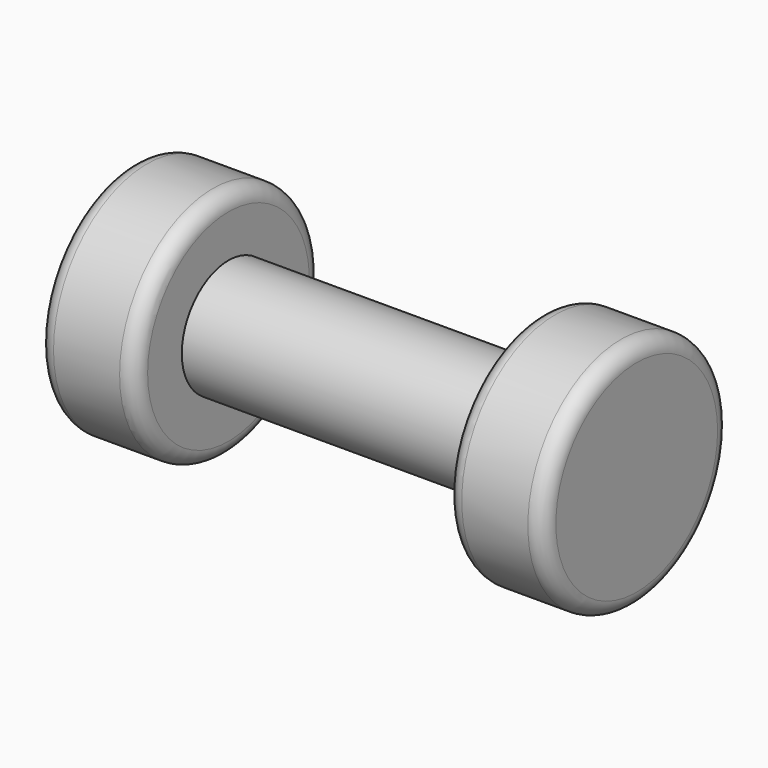
from build123d import *

# Parameters (mm, degrees)
F0_R     = 38.1
F1_DEPTH = 31.75
F2_R     = 5.08
F3_R     = 19.05
F4_DEPTH = 101.6
F5_R     = 38.1
F6_DEPTH = 31.75
F7_R     = 5.08


with BuildPart() as f1:
    # F0 (on Right) → F1 (new body)
    with BuildSketch(Plane.YZ):
        Circle(F0_R)
    extrude(amount=F1_DEPTH)

    # F2
    f2_edges = [f1.edges().sort_by_distance(p)[0] for p in [
        (0, -38.1, 0),
        (31.75, -38.1, 0),
    ]]
    fillet(f2_edges, radius=F2_R)

    # F3 (on face) → F4 (join)
    with BuildSketch(Plane(origin=(0, 0, 0), x_dir=(0, -1, 0), z_dir=(-1, 0, 0))):
        Circle(F3_R)
    extrude(amount=F4_DEPTH)

    # F5 (on face) → F6 (join)
    with BuildSketch(Plane(origin=(-101.6, 0, 0), x_dir=(0, -1, 0), z_dir=(-1, 0, 0))):
        Circle(F5_R)
    extrude(amount=F6_DEPTH)

    # F7
    f7_edges = [f1.edges().sort_by_distance(p)[0] for p in [
        (-101.6, 38.1, 0),
        (-133.35, 38.1, 0),
    ]]
    fillet(f7_edges, radius=F7_R)


solid = f1.part
